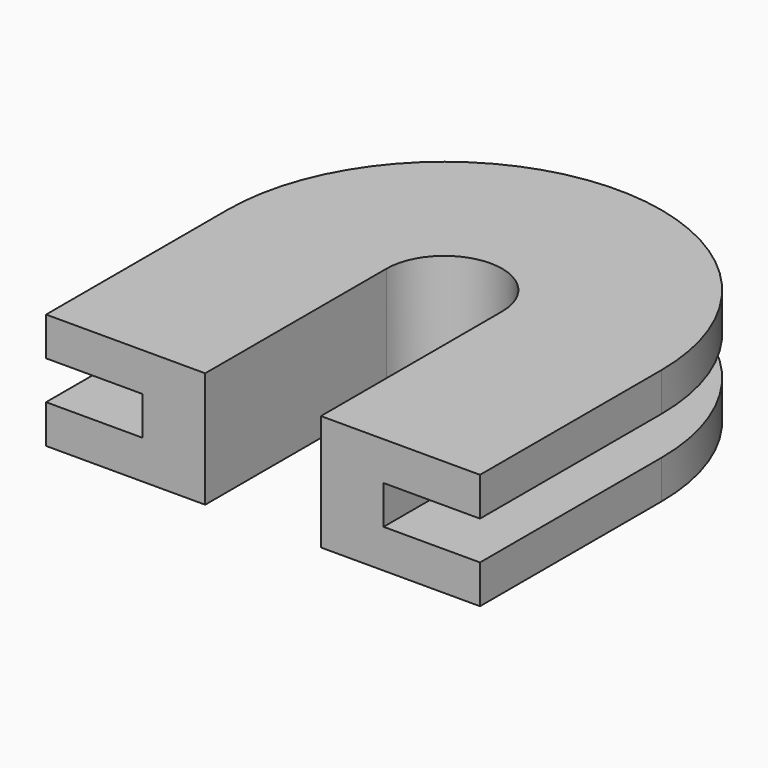
from build123d import *

# Parameters (mm, degrees)
F1_DEPTH = 6
F2_START = 4
F2_DEPTH = 2
F3_DEPTH = 2


with BuildPart() as f1:
    # F0 (on Top) → F1 (new body)
    with BuildSketch(Plane.XY):
        with BuildLine():
            Line((6.25, -11.75), (6.25, 0))
            ThreePointArc((6.25, 0), (0, 6.25), (-6.25, 0))
            Line((-6.25, 0), (-6.25, -11.75))
            Line((-6.25, -11.75), (-3, -11.75))
            Line((-3, -11.75), (-3, 0))
            ThreePointArc((-3, 0), (0, 3), (3, 0))
            Line((3, 0), (3, -11.75))
            Line((3, -11.75), (6.25, -11.75))
        make_face()
    extrude(amount=F1_DEPTH)

    # F0 (on Top) → F2 (join)
    with BuildSketch(Plane.XY.offset(F2_START)):
        with BuildLine():
            ThreePointArc((-6.25, 0), (0, 6.25), (6.25, 0))
            Line((6.25, 0), (6.25, -11.75))
            Line((6.25, -11.75), (11.25, -11.75))
            Line((11.25, -11.75), (11.25, 0))
            ThreePointArc((11.25, 0), (0, 11.25), (-11.25, 0))
            Line((-11.25, 0), (-11.25, -11.75))
            Line((-11.25, -11.75), (-6.25, -11.75))
            Line((-6.25, -11.75), (-6.25, 0))
        make_face()
    extrude(amount=F2_DEPTH)

    # F0 (on Top) → F3 (join)
    with BuildSketch(Plane.XY):
        with BuildLine():
            ThreePointArc((-6.25, 0), (0, 6.25), (6.25, 0))
            Line((6.25, 0), (6.25, -11.75))
            Line((6.25, -11.75), (11.25, -11.75))
            Line((11.25, -11.75), (11.25, 0))
            ThreePointArc((11.25, 0), (0, 11.25), (-11.25, 0))
            Line((-11.25, 0), (-11.25, -11.75))
            Line((-11.25, -11.75), (-6.25, -11.75))
            Line((-6.25, -11.75), (-6.25, 0))
        make_face()
    extrude(amount=F3_DEPTH)


solid = f1.part
